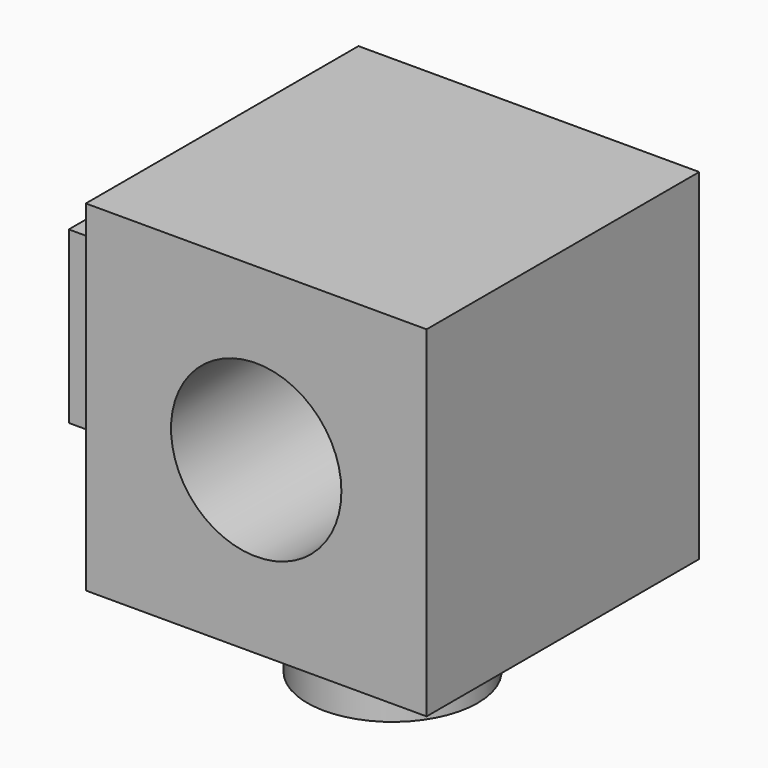
from build123d import *

# Parameters (mm, degrees)
F0_W     = 50.8
F0_H     = 50.8
F1_DEPTH = 50.8
F2_R     = 12.7
F3_DEPTH = 50.8
F4_W     = 25.4
F4_H     = 25.4
F5_DEPTH = 12.7
F6_R     = 12.7
F7_DEPTH = 12.7


with BuildPart() as f1:
    # F0 (on Front) → F1 (new body)
    with BuildSketch(Plane.XZ):
        with Locations((-25.4, 25.4)):
            Rectangle(F0_W, F0_H)
    extrude(amount=F1_DEPTH)

    # F2 (on face) → F3 (cut)
    with BuildSketch(Plane.XZ.offset(50.8)):
        with Locations((-25.4, 25.4)):
            Circle(F2_R)
    extrude(amount=-F3_DEPTH, mode=Mode.SUBTRACT)

    # F4 (on face) → F5 (join)
    with BuildSketch(Plane(origin=(-50.8, 0, 0), x_dir=(0, -1, 0), z_dir=(-1, 0, 0))):
        with Locations((25.4, 25.4)):
            Rectangle(F4_W, F4_H)
    extrude(amount=F5_DEPTH)

    # F6 (on face) → F7 (join)
    with BuildSketch(Plane(origin=(0, 0, 0), x_dir=(1, 0, 0), z_dir=(0, 0, -1))):
        with Locations((-25.4, 25.4)):
            Circle(F6_R)
    extrude(amount=F7_DEPTH)


solid = f1.part
